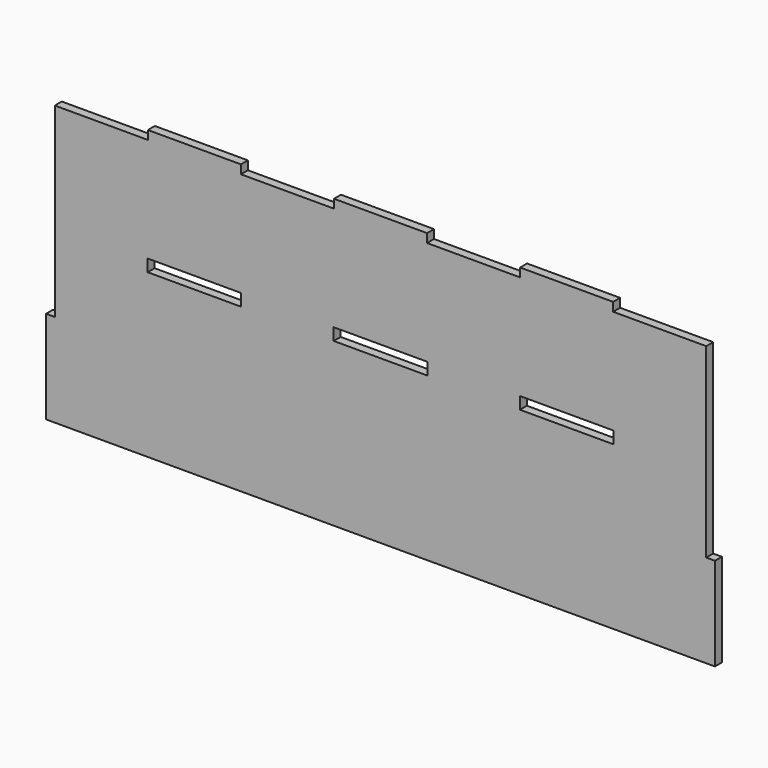
from build123d import *

# Parameters (mm, degrees)
F0_W     = 51.054
F0_H     = 6.604
F0_W_2   = 4.7625
F0_H_2   = 50.8
F0_W_3   = 50.8
F0_H_3   = 4.7625
F1_DEPTH = 4.7625


with BuildPart() as f1:
    # F0 (on Front) → F1 (new body)
    with BuildSketch(Plane.XZ):
        Polygon((-127, 76.2), (-177.8, 76.2), (-177.8, -25.4), (-177.8, -76.2), (177.8, -76.2), (177.8, -25.4), (177.8, 76.2), (127, 76.2), (76.2, 76.2), (25.4, 76.2), (-25.4, 76.2), (-76.2, 76.2), align=None)
        with Locations((-101.6, 15.875)):
            Rectangle(F0_W, F0_H, mode=Mode.SUBTRACT)
        with Locations((0, 15.875)):
            Rectangle(F0_W, F0_H, mode=Mode.SUBTRACT)
        with Locations((101.6, 15.875)):
            Rectangle(F0_W, F0_H, mode=Mode.SUBTRACT)
        with Locations((180.18125, -50.8)):
            Rectangle(F0_W_2, F0_H_2)
        with Locations((-180.18125, -50.8)):
            Rectangle(F0_W_2, F0_H_2)
        with Locations((-101.6, 78.58125)):
            Rectangle(F0_W_3, F0_H_3)
        with Locations((0, 78.58125)):
            Rectangle(F0_W_3, F0_H_3)
        with Locations((101.6, 78.58125)):
            Rectangle(F0_W_3, F0_H_3)
    extrude(amount=F1_DEPTH)


solid = f1.part
